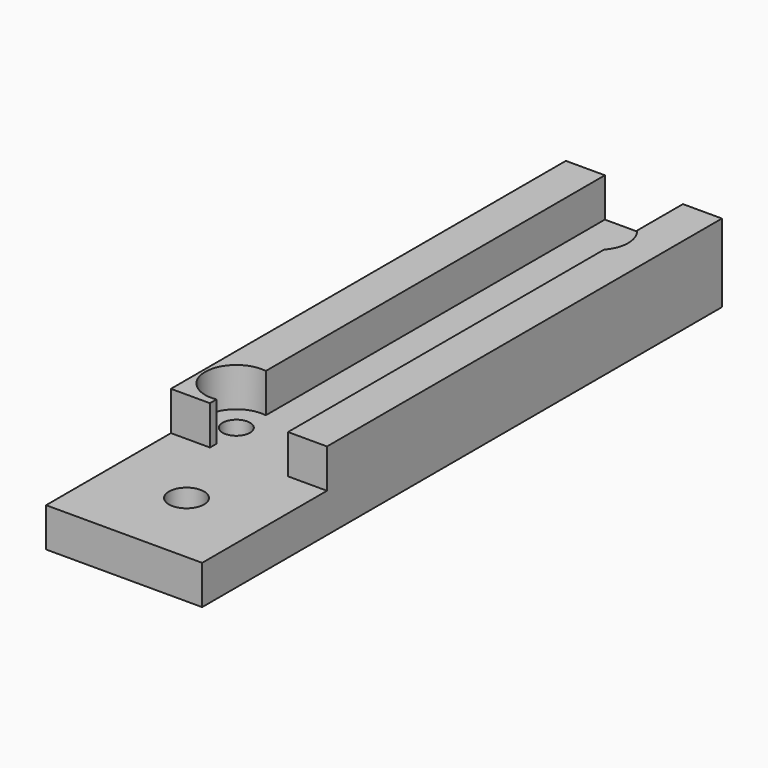
from build123d import *

# Parameters (mm, degrees)
SKETCH_W     = 20
SKETCH_H     = 83.26
SKETCH_R     = 1.75
SKETCH_R_2   = 2.25
PAD_DEPTH    = 5
PAD001_DEPTH = 5


with BuildPart() as part:
    # Sketch → Pad (new body)
    with BuildSketch(Plane.XY):
        with Locations((30.87, -7.5)):
            Rectangle(SKETCH_W, SKETCH_H)
        with Locations((25.25, -24.13)):
            Circle(SKETCH_R, mode=Mode.SUBTRACT)
        with Locations((32.87, 24.13)):
            Circle(SKETCH_R, mode=Mode.SUBTRACT)
        with Locations((30.87, -39.13)):
            Circle(SKETCH_R_2, mode=Mode.SUBTRACT)
    extrude(amount=PAD_DEPTH)

    # Sketch001 → Pad001 (new body)
    with BuildSketch(Plane.XY.offset(5)):
        with BuildLine():
            Line((20.87, 34.13), (20.87, -29.13))
            Line((20.87, -29.13), (25.87, -29.13))
            Line((25.87, -29.13), (25.87, -28.081658))
            ThreePointArc((25.87, -20.178342), (21.25, -24.13), (25.87, -28.081658))
            Line((25.87, 34.13), (25.87, -20.178342))
            Line((20.87, 34.13), (25.87, 34.13))
        make_face()
        with BuildLine():
            Line((40.87, 34.13), (35.87, 34.13))
            Line((35.87, 34.13), (35.87, 26.775751))
            ThreePointArc((35.87, 21.484249), (36.87, 24.13), (35.87, 26.775751))
            Line((35.87, -29.13), (35.87, 21.484249))
            Line((35.87, -29.13), (40.87, -29.13))
            Line((40.87, -29.13), (40.87, 34.13))
        make_face()
    extrude(amount=PAD001_DEPTH)


solid = part.part
